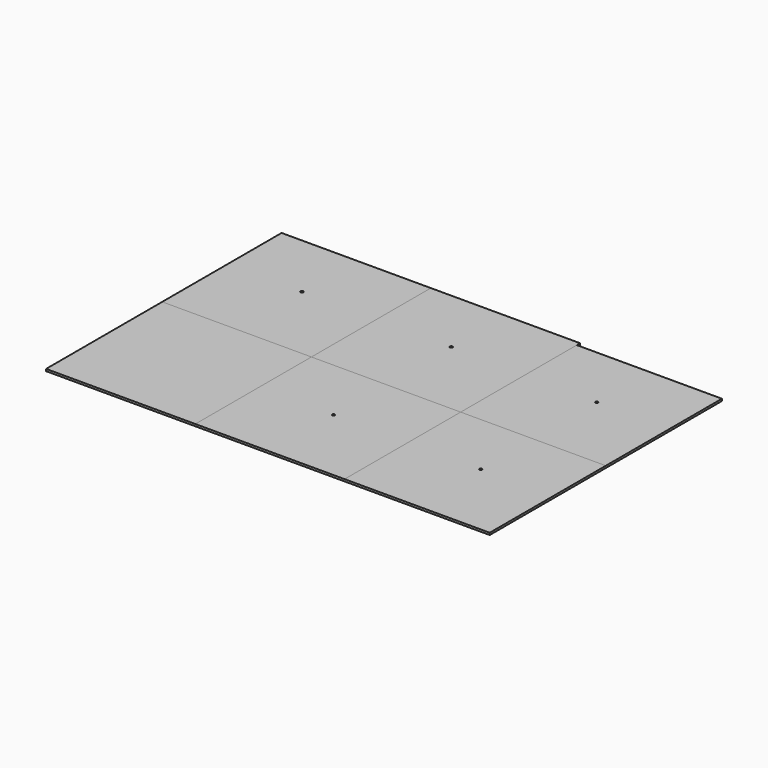
from build123d import *

# Parameters (mm, degrees)
F0_W     = 218.00013
F0_H     = 218.00013
F0_R     = 2
F1_DEPTH = 3
F2_DEPTH = 3
F0_W_2   = 212.000152
F0_H_2   = 212.000152
F3_DEPTH = 3
F0_H_3   = 211.99987
F4_DEPTH = 3
F5_DEPTH = 3
F0_H_4   = 211.999979
F6_DEPTH = 3


with BuildPart() as f1:
    # F0 (on Top) → F1 (new body)
    with BuildSketch(Plane.XY):
        with Locations((-215.000055, 105.999989)):
            Rectangle(F0_W, F0_H)
        with Locations((-215.000055, 115.999989)):
            Circle(F0_R, mode=Mode.SUBTRACT)
    extrude(amount=F1_DEPTH)


with BuildPart() as f2:
    # F0 (on Top) → F2 (new body)
    with BuildSketch(Plane.XY):
        Polygon((111.999968, 215.000054), (-105.99999, 215.000054), (-105.99999, -3.000076), (111.999968, -3.000076), (111.999968, 209.000076), align=None)
        with Locations((2.999989, 115.999989)):
            Circle(F0_R, mode=Mode.SUBTRACT)
    extrude(amount=F2_DEPTH)


with BuildPart() as f3:
    # F0 (on Top) → F3 (new body)
    with BuildSketch(Plane.XY):
        with Locations((218.000044, 103)):
            Rectangle(F0_W_2, F0_H_2)
        with Locations((218.000044, 113)):
            Circle(F0_R, mode=Mode.SUBTRACT)
    extrude(amount=F3_DEPTH)


with BuildPart() as f4:
    # F0 (on Top) → F4 (new body)
    with BuildSketch(Plane.XY):
        with Locations((-215.000055, -109.000011)):
            Rectangle(F0_W, F0_H_3)
    extrude(amount=F4_DEPTH)


with BuildPart() as f5:
    # F0 (on Top) → F5 (new body)
    with BuildSketch(Plane.XY):
        Polygon((111.999968, -3.000076), (-105.99999, -3.000076), (-105.99999, -214.999946), (-105.99999, -215.000055), (111.999968, -215.000055), align=None)
        with Locations((2.999989, -99.0000655)):
            Circle(F0_R, mode=Mode.SUBTRACT)
    extrude(amount=F5_DEPTH)


with BuildPart() as f6:
    # F0 (on Top) → F6 (new body)
    with BuildSketch(Plane.XY):
        with Locations((218.000044, -109.0000655)):
            Rectangle(F0_W_2, F0_H_4)
        with Locations((218.000044, -99.0000655)):
            Circle(F0_R, mode=Mode.SUBTRACT)
    extrude(amount=F6_DEPTH)


solid = Compound([f1.part, f2.part, f3.part, f4.part, f5.part, f6.part])
